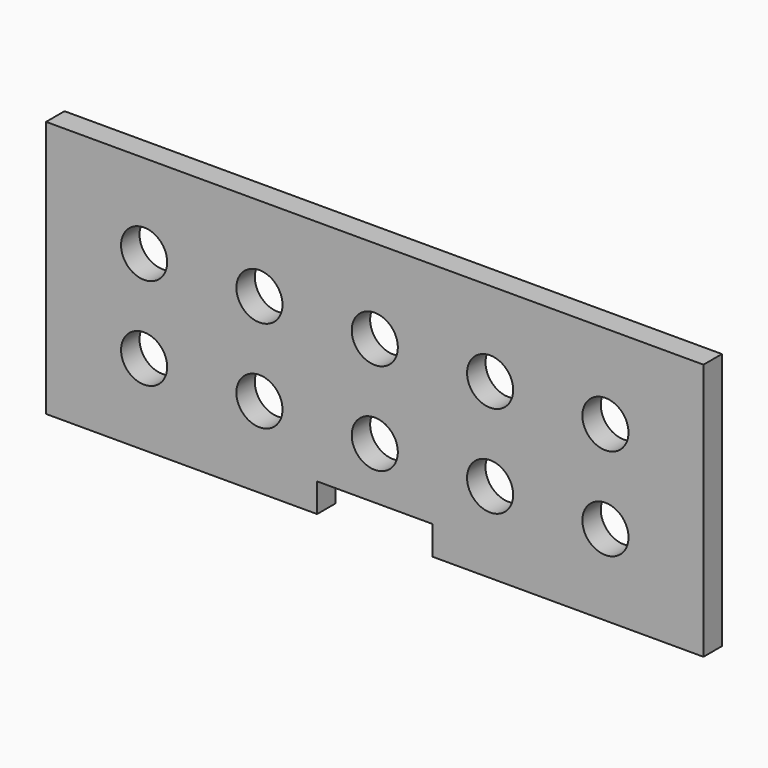
from build123d import *

# Parameters (mm, degrees)
BOX002_W          = 10
BOX002_H          = 8
BOX002_DEPTH      = 5
CYLINDER003_R     = 2
CYLINDER003_DEPTH = 10
ARRAY003_X_COUNT  = 5
ARRAY003_X_PITCH  = 10
ARRAY003_Z_COUNT  = 2
ARRAY003_Z_PITCH  = 8
BOX001_W          = 57
BOX001_H          = 2
BOX001_DEPTH      = 22.3


with BuildPart() as cube:
    # Box002 → Box002 (new body)
    with BuildSketch(Plane(origin=(-15, -27, -2.5), x_dir=(1, 0, 0), z_dir=(0, 0, 1))):
        with Locations((5, 4)):
            Rectangle(BOX002_W, BOX002_H)
    extrude(amount=BOX002_DEPTH)


with BuildPart() as array003:
    # Cylinder003 → Cylinder003 (new body)
    with BuildSketch(Plane(origin=(-30, -16, 7), x_dir=(1, 0, 0), z_dir=(0, -1, 0))):
        Circle(CYLINDER003_R)
    extrude(amount=CYLINDER003_DEPTH)

    # Array003 X: Array003 ×5


with BuildPart() as array003_1:
    add(array003.part)
    with Locations(*[(i * ARRAY003_X_PITCH, 0, 0) for i in range(1, ARRAY003_X_COUNT)]):
        add(array003.part)

    # Array003 Z: Array003 ×2


with BuildPart() as array003_2:
    add(array003_1.part)
    with Locations(*[(0, 0, i * ARRAY003_Z_PITCH) for i in range(1, ARRAY003_Z_COUNT)]):
        add(array003_1.part)


with BuildPart() as cut006:
    # Box001 → Box001 (new body)
    with BuildSketch(Plane(origin=(-38.5, -22, 0), x_dir=(1, 0, 0), z_dir=(0, 0, 1))):
        with Locations((28.5, 1)):
            Rectangle(BOX001_W, BOX001_H)
    extrude(amount=BOX001_DEPTH)

    # Cut005: cut Array003
    add(array003_2.part, mode=Mode.SUBTRACT)

    # Cut006: cut Cube
    add(cube.part, mode=Mode.SUBTRACT)


solid = cut006.part
